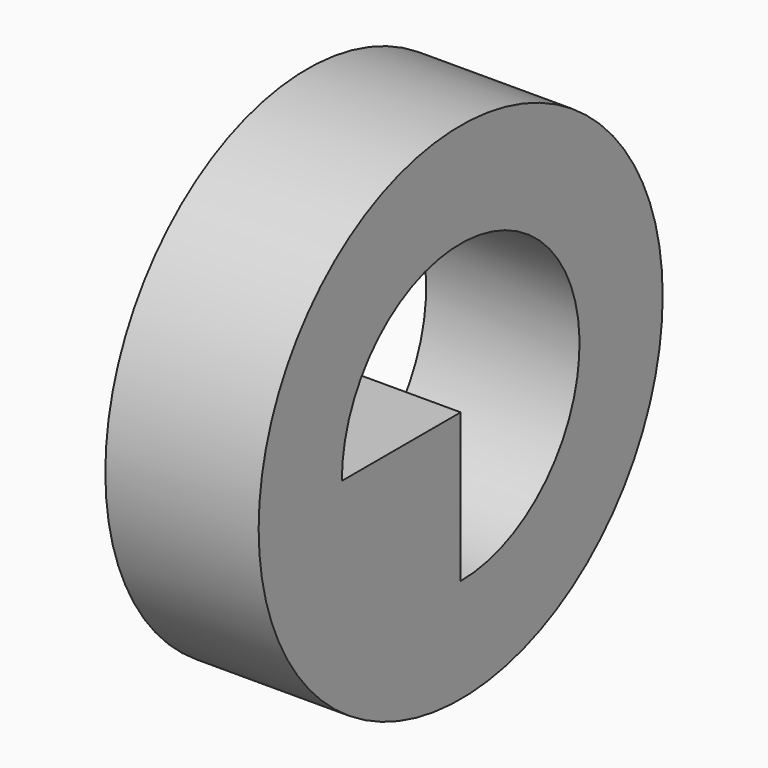
from build123d import *

# Parameters (mm, degrees)
F0_W      = 33.8291116059
F0_H      = 24.611370638
F1_DEPTH  = 25.4
F1_FACE_W = 25.4
F1_FACE_H = 33.8291116059


with BuildPart() as f1:
    # F0 (on Right) → F1 (new body)
    with BuildSketch(Plane.YZ):
        with Locations((-16.9145558029, -12.305685319)):
            Rectangle(F0_W, F0_H)
    extrude(amount=F1_DEPTH)

    # F1_face (on face) → F2 (revolve)
    with BuildSketch(Plane(origin=(12.7, -16.9145558029, -24.611370638), x_dir=(1, 0, 0), z_dir=(0, 0, -1))):
        Rectangle(F1_FACE_W, F1_FACE_H)
    revolve(axis=Axis((12.7, 0, 0), (-1, 0, 0)))


solid = f1.part
